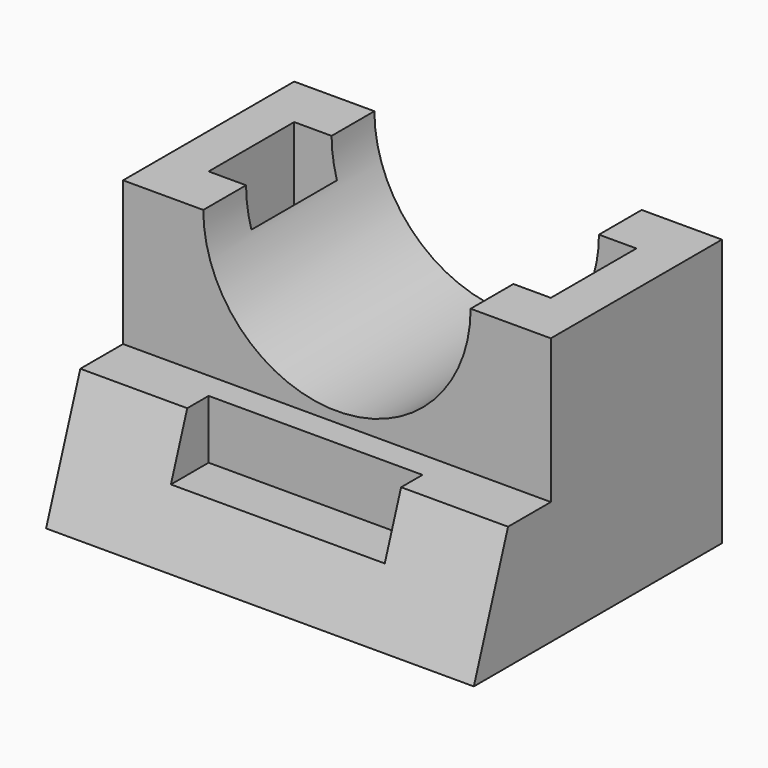
from build123d import *

# Parameters (mm, degrees)
F0_W      = 80
F0_H      = 58
F1_DEPTH  = 50
F3_DEPTH  = 80.001
F6_DEPTH  = 40
F7_W      = 8
F7_H      = 20
F8_DEPTH  = 15
F10_DEPTH = 40.001


with BuildPart() as f1:
    # F0 (on Top) → F1 (new body)
    with BuildSketch(Plane.XY):
        Rectangle(F0_W, F0_H)
    extrude(amount=F1_DEPTH)

    # F2 (on face) → F3 (cut, through all)
    with BuildSketch(Plane(origin=(-40, 0, 0), x_dir=(0, -1, 0), z_dir=(-1, 0, 0))):
        Polygon((29, 50), (11, 50), (11, 23.0452120304), (21, 23.0452120304), (29, 0), align=None)
    extrude(amount=-F3_DEPTH, mode=Mode.SUBTRACT)

    # F5 (on offset) → F6 (cut)
    with BuildSketch(Plane(origin=(-20, 0, 0), x_dir=(0, -1, 0), z_dir=(-1, 0, 0))):
        Polygon((24.8185806181, 12.0452120304), (21, 23.0452120304), (16, 23.0452120304), (16, 12.0452120304), align=None)
    extrude(amount=-F6_DEPTH, mode=Mode.SUBTRACT)

    # F7 (on face) → F8 (cut)
    with BuildSketch(Plane.XY.offset(50)):
        with Locations((-28, 9)):
            Rectangle(F7_W, F7_H)
        with Locations((28, 9)):
            Rectangle(F7_W, F7_H)
    extrude(amount=-F8_DEPTH, mode=Mode.SUBTRACT)

    # F9 (on face) → F10 (cut, through all)
    with BuildSketch(Plane.XZ.offset(11)):
        with BuildLine():
            Line((25, 50), (-25, 50))
            ThreePointArc((-25, 50), (0, 25), (25, 50))
        make_face()
    extrude(amount=-F10_DEPTH, mode=Mode.SUBTRACT)


solid = f1.part
